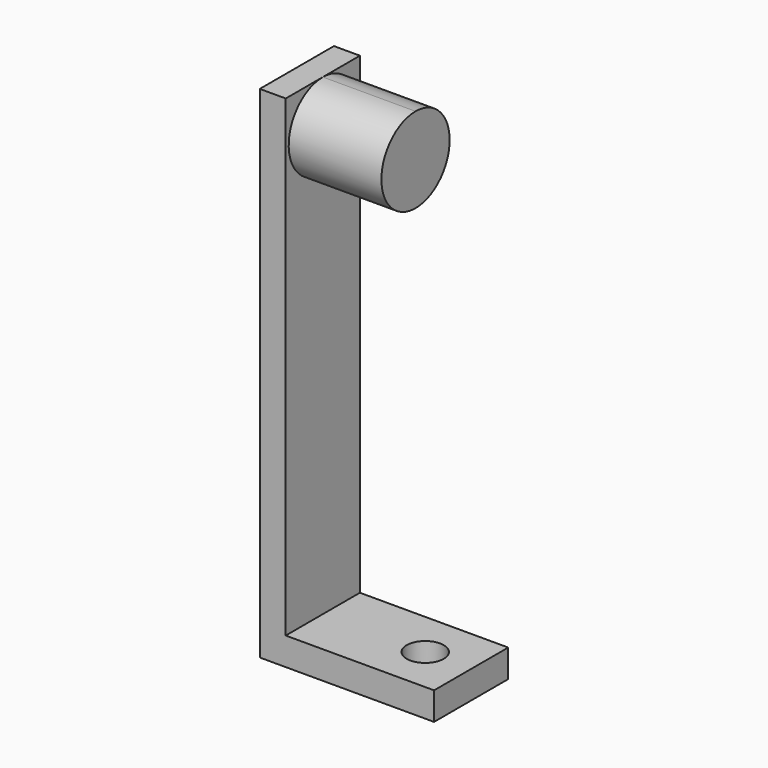
from build123d import *

# Parameters (mm, degrees)
F0_W     = 7
F0_H     = 135
F1_DEPTH = 25
F3_DEPTH = 25
F4_W     = 25
F4_H     = 7.5
F5_DEPTH = 40
F7_R     = 5
F8_DEPTH = 7.501


with BuildPart() as f1:
    # F0 (on Front) → F1 (new body)
    with BuildSketch(Plane.XZ):
        with Locations((-31.12164, 8.253676)):
            Rectangle(F0_W, F0_H)
    extrude(amount=F1_DEPTH)

    # F2 (on face) → F3 (join)
    with BuildSketch(Plane.YZ.offset(-27.62164)):
        with BuildLine():
            ThreePointArc((-12.5, 75.753676), (-20.631728, 56.121948), (-1, 64.253676))
            ThreePointArc((-1, 64.253676), (-4.368272, 72.385404), (-12.5, 75.753676))
        make_face()
    extrude(amount=F3_DEPTH)

    # F4 (on face) → F5 (join)
    with BuildSketch(Plane.YZ.offset(-27.62164)):
        with Locations((-12.5, -55.496324)):
            Rectangle(F4_W, F4_H)
    extrude(amount=F5_DEPTH)

    # F7 (on face) → F8 (cut, through all)
    with BuildSketch(Plane.XY.offset(-51.746324)):
        with Locations((0, -12.5)):
            Circle(F7_R)
    extrude(amount=-F8_DEPTH, mode=Mode.SUBTRACT)


solid = f1.part
